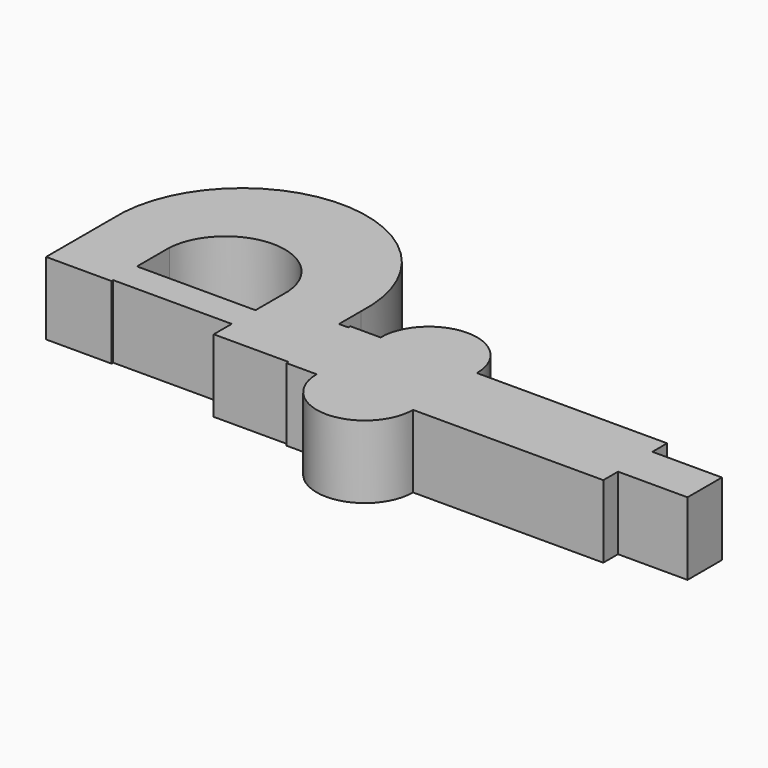
from build123d import *

# Parameters (mm, degrees)
F0_W     = 17
F0_H     = 10.514781
F1_DEPTH = 17.78


with BuildPart() as f1:
    # F0 (on Top) → F1 (new body)
    with BuildSketch(Plane.XY):
        with BuildLine():
            Line((-63.051145, -54.98954), (-63.051145, -48.261526))
            ThreePointArc((-63.051145, -48.261526), (-93.559145, -15.989189), (-124.067145, -48.261526))
            Line((-124.067145, -48.261526), (-124.067145, -54.989189))
            Line((-124.067145, -54.989189), (-124.067145, -56.005189))
            Line((-124.067145, -56.005189), (-124.067145, -68.254414))
            Line((-124.067145, -68.254414), (-108.051145, -68.254414))
            Line((-108.051145, -68.254414), (-108.051145, -67.754308))
            Line((-108.051145, -67.754308), (-108.051145, -60.490071))
            Line((-108.051145, -60.490071), (-108.051145, -56.005189))
            Line((-108.051145, -56.005189), (-108.051145, -54.989189))
            Line((-108.051145, -54.989189), (-108.051145, -50.514857))
            ThreePointArc((-108.051145, -50.514857), (-93.559145, -37.005189), (-79.067145, -50.514857))
            Line((-79.067145, -50.514857), (-79.067145, -54.98954))
            Line((-79.067145, -54.98954), (-63.051145, -54.98954))
        make_face()
        Polygon((-79.067145, -61.005189), (-79.067145, -60.490071), (-108.051145, -60.490071), (-108.051145, -67.754308), (-79.067145, -67.754308), align=None)
        Polygon((-60.801145, -54.98954), (-63.051145, -54.98954), (-79.067145, -54.98954), (-79.067145, -60.490071), (-79.067145, -61.005189), (-79.067145, -67.754308), (-79.067145, -73.254839), (-60.801145, -73.254839), align=None)
        Polygon((-60.801145, -54.364518), (-60.801145, -54.98954), (-60.801145, -73.254839), (-60.801145, -73.879861), (-53.390384, -73.879861), (-29.825188, -73.879861), (-23.928846, -73.879861), (16.698855, -73.879861), (16.698855, -69.37958), (16.698855, -58.864799), (16.698855, -54.364518), (-29.825188, -54.364518), (-53.390384, -54.364518), align=None)
        with Locations((25.198855, -64.122189)):
            Rectangle(F0_W, F0_H)
        with BuildLine():
            ThreePointArc((-29.825188, -54.364518), (-41.607786, -42.515753), (-53.390384, -54.364518))
            Line((-53.390384, -54.364518), (-29.825188, -54.364518))
        make_face()
        with BuildLine():
            Line((-29.825188, -73.879861), (-53.390384, -73.879861))
            ThreePointArc((-53.390384, -73.879861), (-41.607786, -85.662459), (-29.825188, -73.879861))
        make_face()
    extrude(amount=F1_DEPTH)


solid = f1.part
